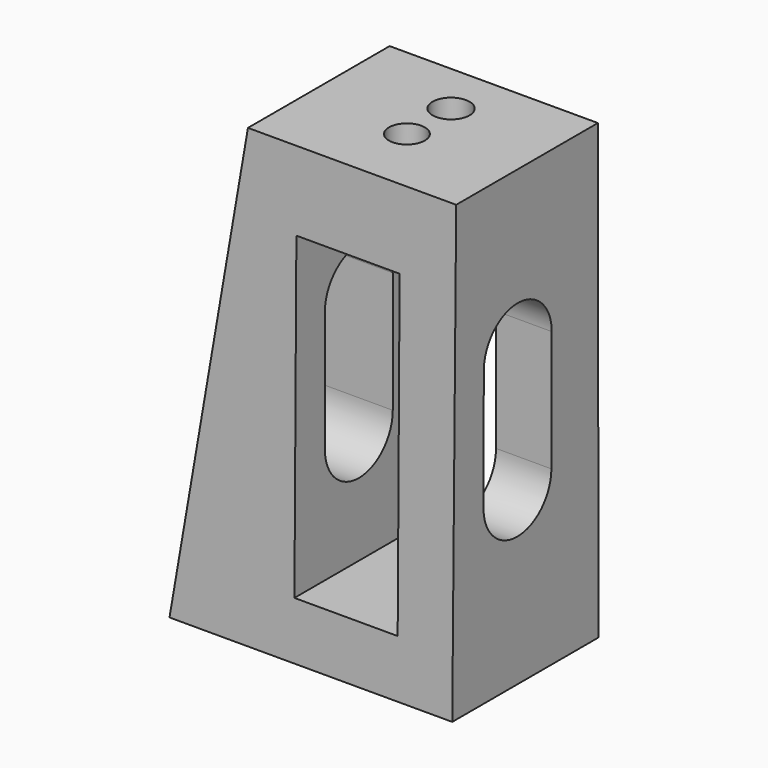
from build123d import *

# Parameters (mm, degrees)
F1_W      = 24.9
F1_H      = 16.1
F2_W      = 18.339114
F2_H      = 15.596803
F4_W      = 9.09091
F4_H      = 28
F5_DEPTH  = 43.97606
F7_DEPTH  = 48.58648
F8_R      = 1.628979
F9_DEPTH  = 25
F10_R     = 1.57945
F11_DEPTH = 25


with BuildPart() as f3:
    # F1 (on Top) → F3 section 0
    with BuildSketch(Plane.XY):
        with Locations((-36.237153, 30.487152)):
            Rectangle(F1_W, F1_H)
    # F2 (on offset) → F3 section 1
    with BuildSketch(Plane.XY.offset(40)):
        with Locations((-32.853606, 30.5409)):
            Rectangle(F2_W, F2_H)
    loft()

    # F4 (on Front) → F5 (cut)
    with BuildSketch(Plane.XZ):
        with Locations((-33.169536, 19.06869)):
            Rectangle(F4_W, F4_H)
    extrude(amount=-F5_DEPTH, mode=Mode.SUBTRACT)

    # F6 (on Right) → F7 (cut)
    with BuildSketch(Plane.YZ):
        with BuildLine():
            ThreePointArc((33.29777, 25.870029), (29.562821, 29.604978), (25.827872, 25.870029))
            Line((25.827872, 25.870029), (25.827872, 15.214866))
            ThreePointArc((25.827872, 15.214866), (29.562821, 11.479917), (33.29777, 15.214866))
            Line((33.29777, 15.214866), (33.29777, 25.870029))
        make_face()
    extrude(amount=-F7_DEPTH, mode=Mode.SUBTRACT)

    # F8 (on offset) → F9 (cut)
    with BuildSketch(Plane.XY.offset(40)):
        with Locations((-32.914963, 33.718325)):
            Circle(F8_R)
    extrude(amount=-F9_DEPTH, mode=Mode.SUBTRACT)

    # F10 (on offset) → F11 (cut)
    with BuildSketch(Plane.XY.offset(40)):
        with Locations((-32.921717, 28.86181)):
            Circle(F10_R)
    extrude(amount=-F11_DEPTH, mode=Mode.SUBTRACT)


solid = f3.part
